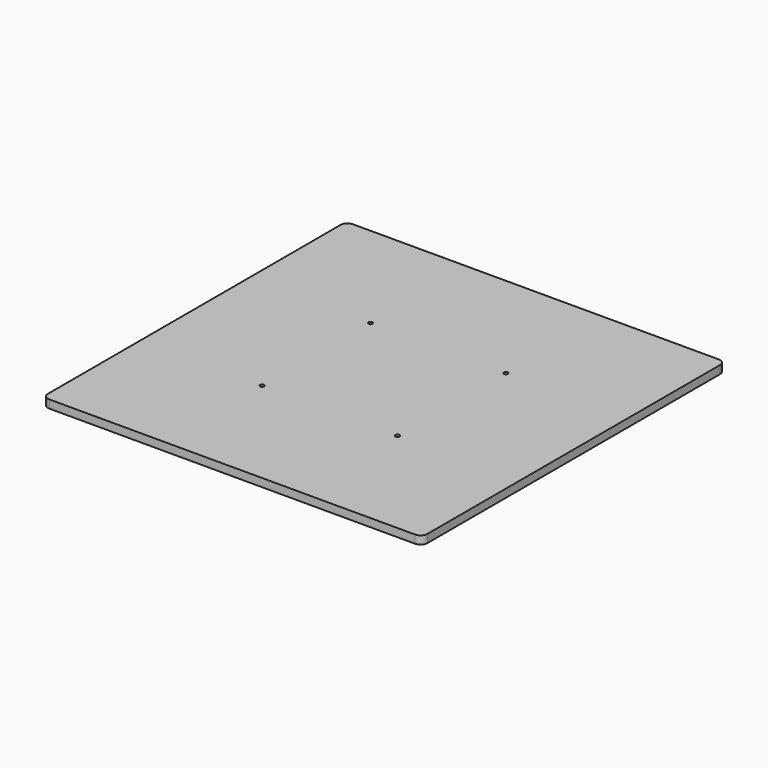
from build123d import *

# Parameters (mm, degrees)
F1_DEPTH = 6
F2_R     = 1.5
F3_DEPTH = 6


with BuildPart() as f1:
    # F0 (on Top) → F1 (new body)
    with BuildSketch(Plane.XY):
        with BuildLine():
            Line((-135, -140), (135, -140))
            ThreePointArc((135, -140), (138.535534, -138.535534), (140, -135))
            Line((140, -135), (140, 135))
            ThreePointArc((140, 135), (138.535534, 138.535534), (135, 140))
            Line((135, 140), (-135, 140))
            ThreePointArc((-135, 140), (-138.535534, 138.535534), (-140, 135))
            Line((-140, 135), (-140, -135))
            ThreePointArc((-140, -135), (-138.535534, -138.535534), (-135, -140))
        make_face()
    extrude(amount=F1_DEPTH)

    # F2 (on face) → F3 (cut, through all)
    with BuildSketch(Plane.XY.offset(6)):
        with Locations((-50, 50)):
            Circle(F2_R)
        with Locations((50, 50)):
            Circle(F2_R)
        with Locations((50, -50)):
            Circle(F2_R)
        with Locations((-50, -50)):
            Circle(F2_R)
    extrude(amount=-F3_DEPTH, mode=Mode.SUBTRACT)


solid = f1.part
